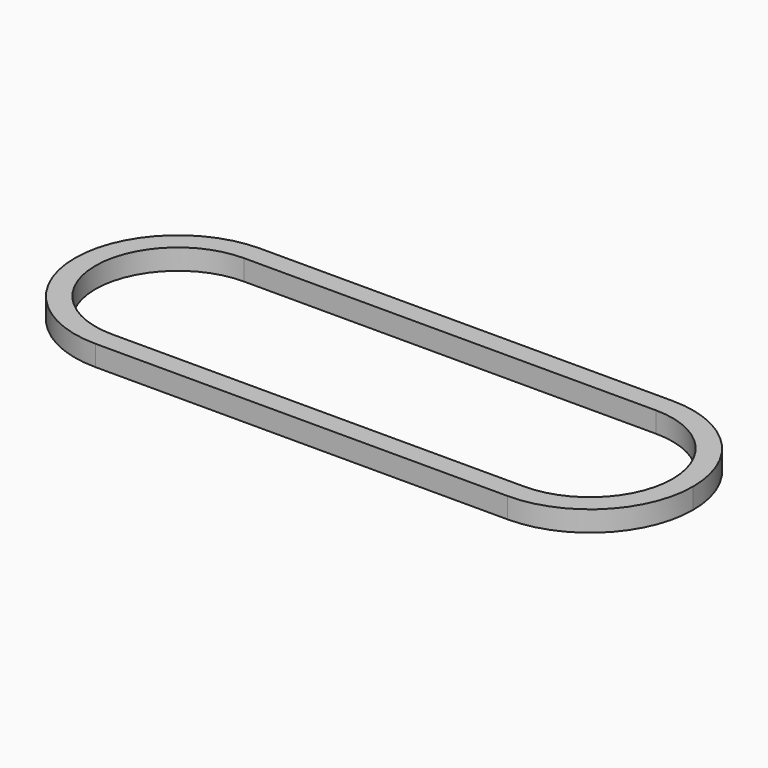
from build123d import *

# Parameters (mm, degrees)
F1_DEPTH = 5
F3_DEPTH = 25


with BuildPart() as f1:
    # F0 (on Top) → F1 (new body)
    with BuildSketch(Plane.XY):
        with BuildLine():
            Line((50, 25), (0, 25))
            Line((0, 25), (-50, 25))
            ThreePointArc((-50, 25), (-32.3223304703, 17.6776695297), (-25, 0))
            ThreePointArc((-25, 0), (-32.3223304703, -17.6776695297), (-50, -25))
            Line((-50, -25), (0, -25))
            Line((0, -25), (50, -25))
            ThreePointArc((50, -25), (25, 0), (50, 25))
        make_face()
        with BuildLine():
            ThreePointArc((-25, 0), (-32.3223304703, 17.6776695297), (-50, 25))
            ThreePointArc((-50, 25), (-75, 0), (-50, -25))
            ThreePointArc((-50, -25), (-32.3223304703, -17.6776695297), (-25, 0))
        make_face()
        with BuildLine():
            ThreePointArc((75, 0), (67.6776695297, 17.6776695297), (50, 25))
            ThreePointArc((50, 25), (25, 0), (50, -25))
            ThreePointArc((50, -25), (67.6776695297, -17.6776695297), (75, 0))
        make_face()
    extrude(amount=F1_DEPTH)

    # F2 (on face) → F3 (cut)
    with BuildSketch(Plane.XY.offset(5)):
        with BuildLine():
            Line((50, 20), (0, 20))
            Line((0, 20), (-50, 20))
            ThreePointArc((-50, 20), (-35.8578643763, 14.1421356237), (-30, 0))
            ThreePointArc((-30, 0), (-35.8578643763, -14.1421356237), (-50, -20))
            Line((-50, -20), (0, -20))
            Line((0, -20), (50, -20))
            ThreePointArc((50, -20), (30, 0), (50, 20))
        make_face()
        with BuildLine():
            Line((-50, -20), (-50, 20))
            ThreePointArc((-50, 20), (-70, 0), (-50, -20))
        make_face()
        with BuildLine():
            ThreePointArc((-30, 0), (-35.8578643763, 14.1421356237), (-50, 20))
            Line((-50, 20), (-50, -20))
            ThreePointArc((-50, -20), (-35.8578643763, -14.1421356237), (-30, 0))
        make_face()
        with BuildLine():
            Line((50, -20), (50, 20))
            ThreePointArc((50, 20), (30, 0), (50, -20))
        make_face()
        with BuildLine():
            ThreePointArc((70, 0), (64.1421356237, 14.1421356237), (50, 20))
            Line((50, 20), (50, -20))
            ThreePointArc((50, -20), (64.1421356237, -14.1421356237), (70, 0))
        make_face()
    extrude(amount=-F3_DEPTH, mode=Mode.SUBTRACT)


solid = f1.part
